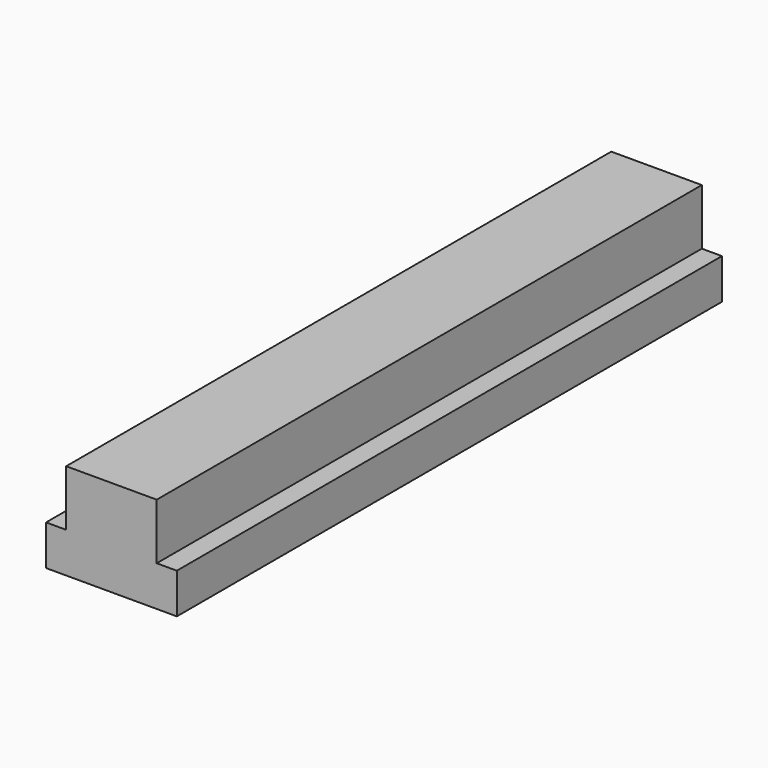
from build123d import *

# Parameters (mm, degrees)
F1_DEPTH = 101.6


with BuildPart() as f1:
    # F0 (on Front) → F1 (new body)
    with BuildSketch(Plane.XZ):
        Polygon((0, 6), (0, 0), (19.5, 0), (19.5, 6), (16.5, 6), (16.5, 1.62), (3, 1.62), (3, 6), align=None)
        Polygon((3, 14.35), (3, 6), (3, 1.62), (16.5, 1.62), (16.5, 6), (16.5, 14.35), align=None)
    extrude(amount=F1_DEPTH)


solid = f1.part
